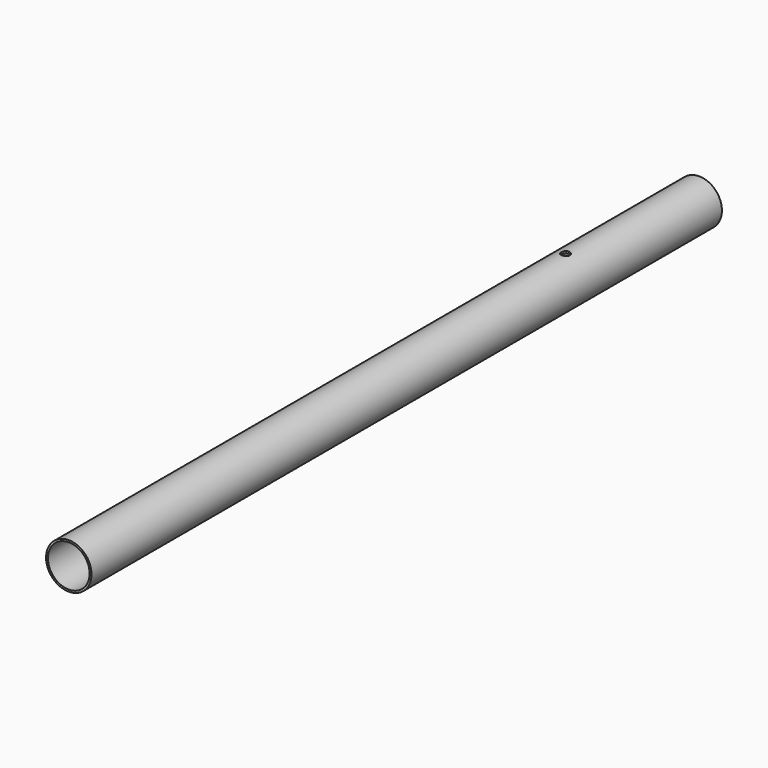
from build123d import *

# Parameters (mm, degrees)
F0_R     = 19.05
F0_R_2   = 17.45
F1_DEPTH = 660
F2_R     = 3.5625283299
F3_DEPTH = 20.050000094
F4_R     = 1
F5_DEPTH = 20.050000107


with BuildPart() as f1:
    # F0 (on Front) → F1 (new body)
    with BuildSketch(Plane.XZ):
        Circle(F0_R)
        Circle(F0_R_2, mode=Mode.SUBTRACT)
    extrude(amount=F1_DEPTH)

    # F2 (on Top) → F3 (cut, up to face)
    with BuildSketch(Plane.XY):
        with Locations((0, -140)):
            Circle(F2_R)
    extrude(amount=F3_DEPTH, mode=Mode.SUBTRACT)

    # F4 (on Top) → F5 (cut, up to face)
    with BuildSketch(Plane.XY):
        with Locations((0, -15)):
            Circle(F4_R)
    extrude(amount=-F5_DEPTH, mode=Mode.SUBTRACT)


solid = f1.part
